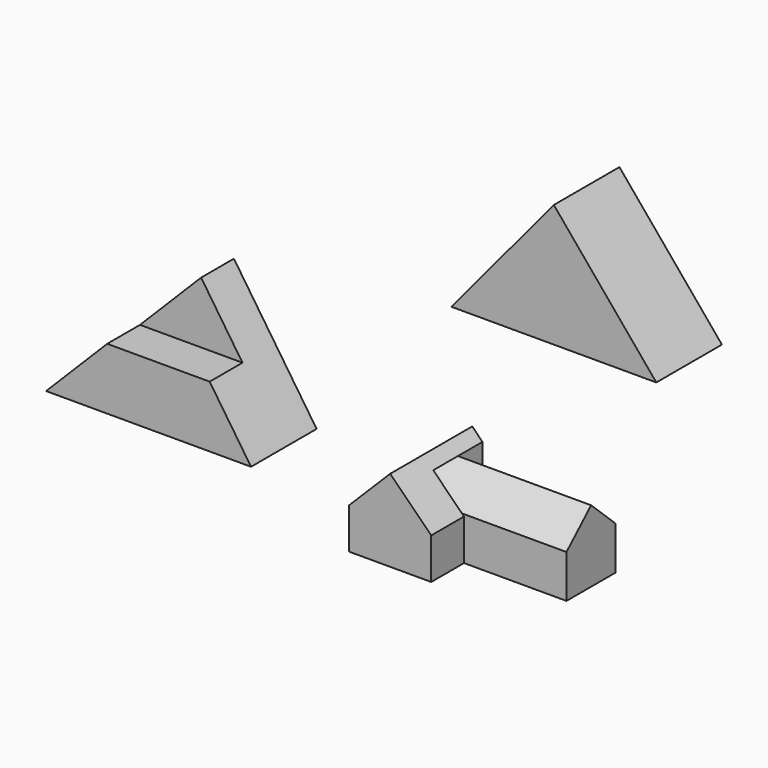
from build123d import *

# Parameters (mm, degrees)
F1_DEPTH  = 101.6
F3_DEPTH  = 50.8
F5_DEPTH  = 101.6
F6_W      = 127
F6_H      = 50.8
F7_DEPTH  = 127
F8_DEPTH  = 50.8
F9_DEPTH  = 50.8
F11_DEPTH = 127
F12_DEPTH = 50.8
F13_DEPTH = 25.4
F14_DEPTH = 76.2


with BuildPart() as f1:
    # F0 (on Front) → F1 (new body)
    with BuildSketch(Plane.XZ):
        Polygon((-254, -152.4), (0, -152.4), (-51.2570695464, -76.2), (-178.2570695464, -76.2), align=None)
        Polygon((-178.2570695464, -76.2), (-51.2570695464, -76.2), (-102.5141390928, 0), align=None)
    extrude(amount=-F1_DEPTH)

    # F2 (on face) → F3 (cut)
    with BuildSketch(Plane.XZ):
        Polygon((-102.5141390928, 0), (-178.2570695464, -76.2), (-51.2570695464, -76.2), align=None)
    extrude(amount=-F3_DEPTH, mode=Mode.SUBTRACT)


with BuildPart() as f5:
    # F4 (on Front) → F5 (new body)
    with BuildSketch(Plane.XZ):
        Polygon((375.2559241105, 255.2993844524), (248.2559241105, 102.8993844524), (375.2559241105, 102.8993844524), align=None)
        Polygon((375.2559241105, 255.2993844524), (375.2559241105, 102.8993844524), (502.2559241105, 102.8993844524), align=None)
    extrude(amount=-F5_DEPTH)


with BuildPart() as f7:
    # F6 (on Front) → F7 (new body)
    with BuildSketch(Plane.XZ):
        Polygon((121.6853982925, -205.5009646893), (223.2853982925, -205.5009646893), (223.2853982925, -154.7009646893), (185.1853982925, -116.6009646893), (172.4853982925, -103.9009646893), (121.6853982925, -154.7009646893), align=None)
        Polygon((223.2853982925, -154.7009646893), (350.2853982925, -154.7009646893), (350.2853982925, -116.6009646893), (185.1853982925, -116.6009646893), align=None)
        with Locations((286.7853982925, -180.1009646893)):
            Rectangle(F6_W, F6_H)
    extrude(amount=-F7_DEPTH)

    # F6 (on Front) → F8 (cut)
    with BuildSketch(Plane.XZ):
        with Locations((286.7853982925, -180.1009646893)):
            Rectangle(F6_W, F6_H)
    extrude(amount=-F8_DEPTH, mode=Mode.SUBTRACT)

    # F6 (on Front) → F9 (cut)
    with BuildSketch(Plane.XZ):
        Polygon((223.2853982925, -154.7009646893), (350.2853982925, -154.7009646893), (350.2853982925, -116.6009646893), (185.1853982925, -116.6009646893), align=None)
    extrude(amount=-F9_DEPTH, mode=Mode.SUBTRACT)

    # F10 (on face) → F11 (cut)
    with BuildSketch(Plane.YZ.offset(350.2853982925)):
        Polygon((50.8, -116.6009646893), (50.8, -152.1249115467), (88.9, -116.6009646893), align=None)
        Polygon((127, -116.6009646893), (88.9, -116.6009646893), (127, -152.1249115467), align=None)
    extrude(amount=-F11_DEPTH, mode=Mode.SUBTRACT)

    # F12 (cut): a face of the model
    f12_faces = [f7.faces().sort_by_distance(p)[0] for p in [
        (223.2853982925, 63.5, -128.4422803084),
    ]]
    extrude(f12_faces, amount=-F12_DEPTH, mode=Mode.SUBTRACT)

    # F13 (cut): a face of the model
    f13_faces = [f7.faces().sort_by_distance(p)[0] for p in [
        (172.4853982925, 63.5, -128.4422803084),
    ]]
    extrude(f13_faces, amount=-F13_DEPTH, mode=Mode.SUBTRACT)

    # F14 (cut): a face of the model
    f14_faces = [f7.faces().sort_by_distance(p)[0] for p in [
        (204.2353982925, 107.95, -116.6009646893),
    ]]
    extrude(f14_faces, amount=-F14_DEPTH, mode=Mode.SUBTRACT)


solid = Compound([f1.part, f5.part, f7.part])
